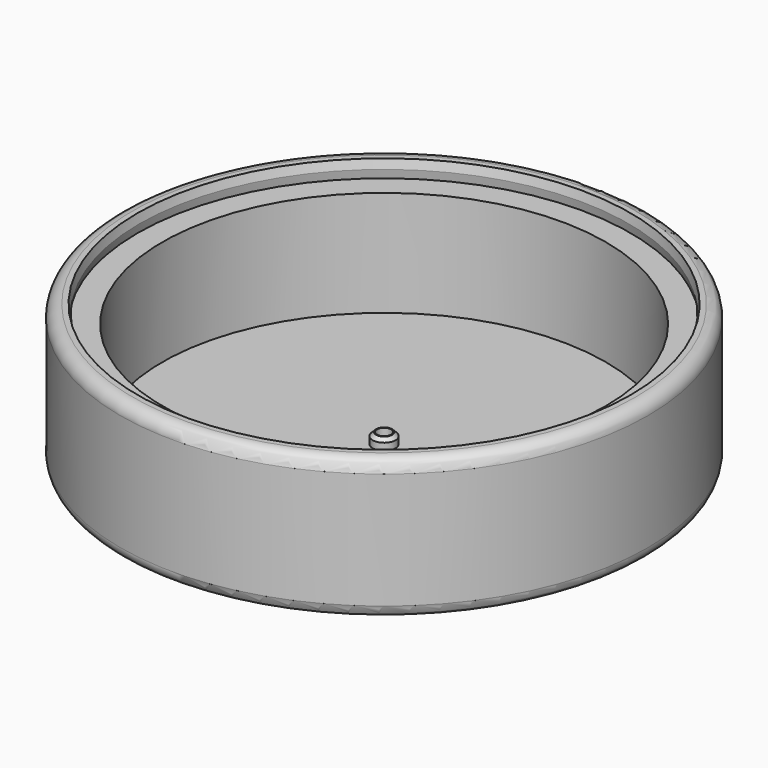
from build123d import *

# Parameters (mm, degrees)
CYLINDER007_R     = 14
CYLINDER007_DEPTH = 1
CYLINDER006_R     = 14
CYLINDER006_DEPTH = 1
CYLINDER005_R     = 0.4
CYLINDER005_DEPTH = 1
CYLINDER001_R     = 12.6
CYLINDER001_DEPTH = 8
CYLINDER_R        = 15
CYLINDER_DEPTH    = 8
CYLINDER002_R     = 15
CYLINDER002_DEPTH = 1
FILLET_R          = 0.7
FILLET001_R       = 0.7
FILLET002_R       = 0.8
CYLINDER004_R     = 0.4
CYLINDER004_DEPTH = 0.6
CYLINDER003_R     = 0.65
CYLINDER003_DEPTH = 0.6
CHAMFER_SIZE      = 0.2


with BuildPart() as cone001:
    # Cone001 → Cone001 (revolve)
    with BuildSketch(Plane(origin=(0, 0, 7), x_dir=(1, 0, 0), z_dir=(0, -1, 0))):
        Polygon((0, 0), (13.8, 0), (14, 1), (0, 1), align=None)
    revolve(axis=Axis((0, 0, 7), (0, 0, 1)))


with BuildPart() as cone:
    # Cone → Cone (revolve)
    with BuildSketch(Plane(origin=(0, 0, 7), x_dir=(1, 0, 0), z_dir=(0, -1, 0))):
        Polygon((0, 0), (14, 0), (13.8, 1), (0, 1), align=None)
    revolve(axis=Axis((0, 0, 7), (0, 0, 1)))


with BuildPart() as cut005:
    # Cylinder007 → Cylinder007 (new body)
    with BuildSketch(Plane.XY.offset(7)):
        Circle(CYLINDER007_R)
    extrude(amount=CYLINDER007_DEPTH)

    # Cut004: cut Cone
    add(cone.part, mode=Mode.SUBTRACT)

    # Cut005: cut Cone001
    add(cone001.part, mode=Mode.SUBTRACT)


with BuildPart() as cylinder006:
    # Cylinder006 → Cylinder006 (new body)
    with BuildSketch(Plane.XY.offset(7)):
        Circle(CYLINDER006_R)
    extrude(amount=CYLINDER006_DEPTH)


with BuildPart() as cylinder005:
    # Cylinder005 → Cylinder005 (new body)
    with BuildSketch(Plane.XY):
        Circle(CYLINDER005_R)
    extrude(amount=CYLINDER005_DEPTH)


with BuildPart() as cylinder001:
    # Cylinder001 → Cylinder001 (new body)
    with BuildSketch(Plane.XY):
        Circle(CYLINDER001_R)
    extrude(amount=CYLINDER001_DEPTH)


with BuildPart() as cut:
    # Cylinder → Cylinder (new body)
    with BuildSketch(Plane.XY):
        Circle(CYLINDER_R)
    extrude(amount=CYLINDER_DEPTH)

    # Cut: cut Cylinder001
    add(cylinder001.part, mode=Mode.SUBTRACT)


with BuildPart() as fillet002:
    # Cylinder002 → Cylinder002 (new body)
    with BuildSketch(Plane.XY):
        Circle(CYLINDER002_R)
    extrude(amount=CYLINDER002_DEPTH)

    # Fusion: union Cut
    add(cut.part)

    # Cut001: cut Cylinder005
    add(cylinder005.part, mode=Mode.SUBTRACT)

    # Cut003: cut Cylinder006
    add(cylinder006.part, mode=Mode.SUBTRACT)

    # Fillet
    fillet_edges = [fillet002.edges().sort_by_distance(p)[0] for p in [
        (-15, 0, 8),
    ]]
    fillet(fillet_edges, radius=FILLET_R)

    # Fillet001
    fillet001_edges = [fillet002.edges().sort_by_distance(p)[0] for p in [
        (-15, 0, 0),
    ]]
    fillet(fillet001_edges, radius=FILLET001_R)

    # Fillet002
    fillet002_edges = [fillet002.edges().sort_by_distance(p)[0] for p in [
        (-0.4, 0, 0),
    ]]
    fillet(fillet002_edges, radius=FILLET002_R)


with BuildPart() as cylinder004:
    # Cylinder004 → Cylinder004 (new body)
    with BuildSketch(Plane.XY.offset(1)):
        Circle(CYLINDER004_R)
    extrude(amount=CYLINDER004_DEPTH)


with BuildPart() as fusion001:
    # Cylinder003 → Cylinder003 (new body)
    with BuildSketch(Plane.XY.offset(1)):
        Circle(CYLINDER003_R)
    extrude(amount=CYLINDER003_DEPTH)

    # Cut002: cut Cylinder004
    add(cylinder004.part, mode=Mode.SUBTRACT)

    # Chamfer
    chamfer_edges = [fusion001.edges().sort_by_distance(p)[0] for p in [
        (-0.65, 0, 1.6),
    ]]
    chamfer(chamfer_edges, length=CHAMFER_SIZE)

    # Fusion001: union Cut005, Fillet002
    add(cut005.part)
    add(fillet002.part)


solid = fusion001.part
